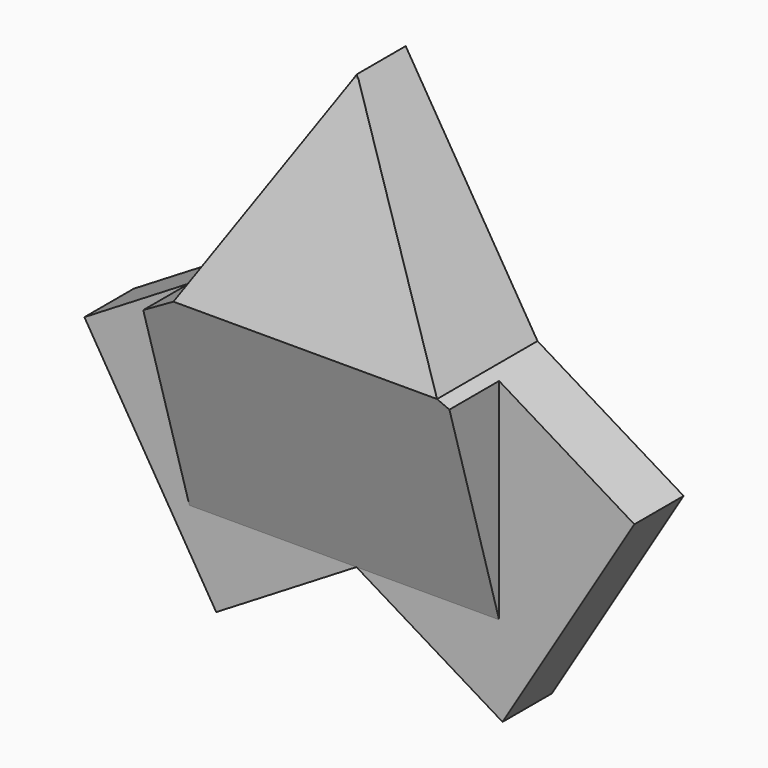
from build123d import *

# Parameters (mm, degrees)
F2_DEPTH = 43.434
F3_DEPTH = 37.084
F4_DEPTH = 16.002
F5_DEPTH = 42.672
F6_DEPTH = 44.45
F7_DEPTH = 25.4
F8_DEPTH = 25.4


with BuildPart() as f2:
    # F1 (on Right) → F2 (new body)
    with BuildSketch(Plane.YZ):
        Polygon((-16.6454371065, 0), (0, -56.3706830144), (0, 0), (0, 55.5314160883), align=None)
    extrude(amount=-F2_DEPTH)

    # F3 (add): a face of the model
    f3_faces = [f2.faces().sort_by_distance(p)[0] for p in [
        (0, -5.5484790355, -0.279755642),
    ]]
    extrude(f3_faces, amount=F3_DEPTH)

    # F0 (on Front) → F4 (join)
    with BuildSketch(Plane.XZ):
        Polygon((0, 56.3706830144), (-34.2700183392, 0), (0, -56.3706830144), (34.2700183392, 0), align=None)
    extrude(amount=-F4_DEPTH)

    # F5 (add): a face of the model
    f5_faces = [f2.faces().sort_by_distance(p)[0] for p in [
        (-17.1350091696, 8.001, -28.1853415072),
    ]]
    extrude(f5_faces, amount=F5_DEPTH)

    # F6 (add): a face of the model
    f6_faces = [f2.faces().sort_by_distance(p)[0] for p in [
        (17.1350091696, 8.001, -28.1853415072),
    ]]
    extrude(f6_faces, amount=F6_DEPTH)

    # F7 (cut): a face of the model
    f7_faces = [f2.faces().sort_by_distance(p)[0] for p in [
        (-28.7931585995, 0, 33.1465043739),
    ]]
    extrude(f7_faces, amount=-F7_DEPTH, mode=Mode.SUBTRACT)

    # F8 (cut): a face of the model
    f8_faces = [f2.faces().sort_by_distance(p)[0] for p in [
        (24.8505885604, 0, 35.6188502379),
    ]]
    extrude(f8_faces, amount=-F8_DEPTH, mode=Mode.SUBTRACT)


solid = f2.part
